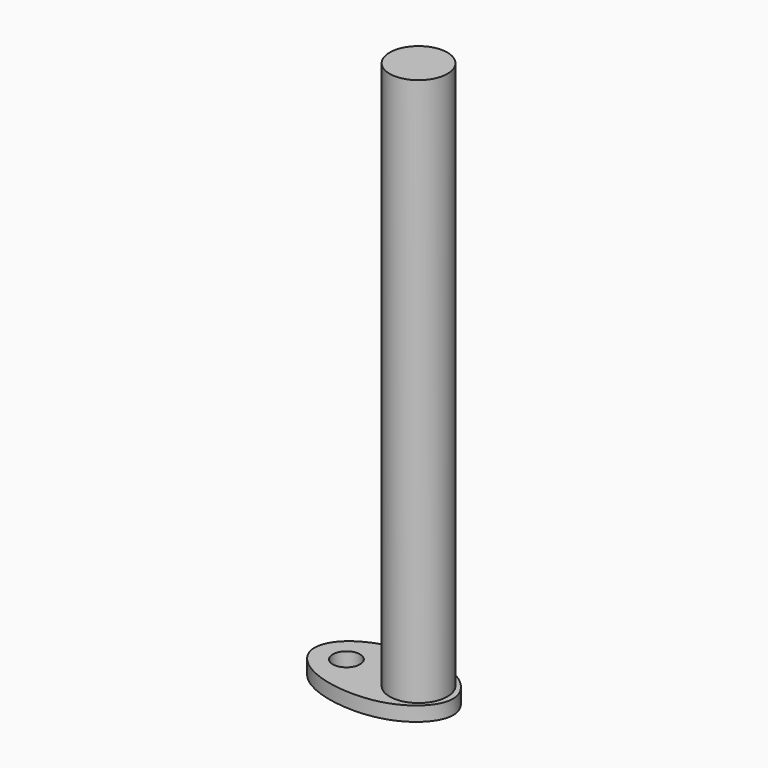
from build123d import *

# Parameters (mm, degrees)
F0_R     = 6.35
F1_DEPTH = 120.65
F2_R     = 2.999994
F3_DEPTH = 3.175


with BuildPart() as f1:
    # F0 (on Top) → F1 (new body)
    with BuildSketch(Plane.XY):
        Circle(F0_R)
    extrude(amount=F1_DEPTH)

    # F2 (on Top) → F3 (join)
    with BuildSketch(Plane.XY):
        with BuildLine():
            add(Edge.make_bspline(
                [(-22.86, 0), (-22.86, 2.5545958015), (-18.3286775124, 8.802077968), (0.4039382183, 10.9002379096), (10.8129862144, 0), (0.4039382183, -10.9002379096), (-18.3286775124, -8.802077968), (-22.86, -2.5545958015), (-22.86, 0)],
                knots=[0, 0, 0, 0, 0.1391633419, 0.3403358355, 0.5, 0.6596641645, 0.8608366581, 1, 1, 1, 1], degree=3))
        make_face()
        with Locations((-15.875, 0)):
            Circle(F2_R, mode=Mode.SUBTRACT)
    extrude(amount=-F3_DEPTH)


solid = f1.part
